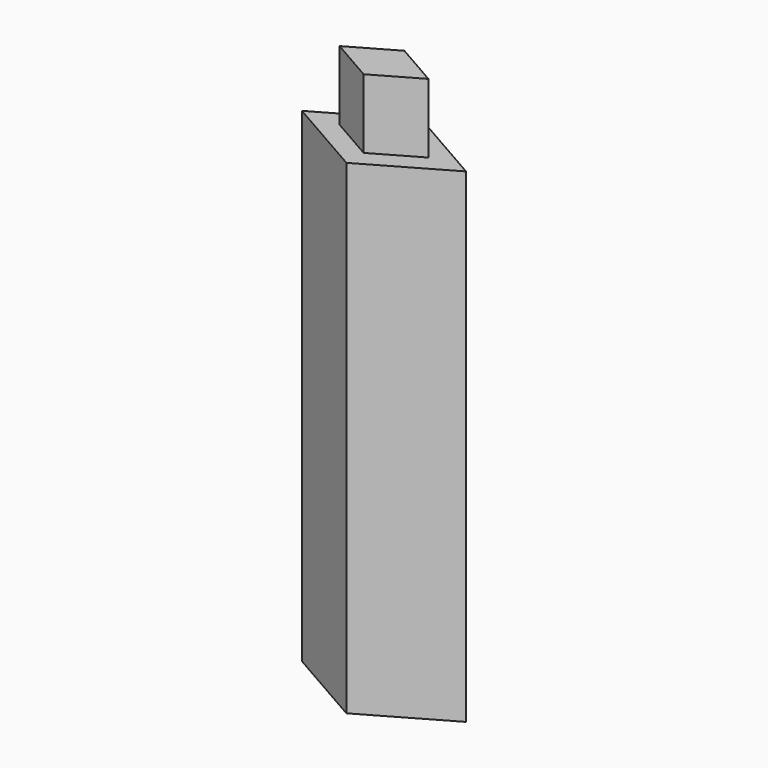
from build123d import *

# Parameters (mm, degrees)
F1_DEPTH = 50.8
F3_DEPTH = 127
F5_DEPTH = 25.4


with BuildPart() as f1:
    # F0 (on Top) → F1 (new body)
    with BuildSketch(Plane.XY):
        Polygon((-30.099, 0), (-17.3265462716, 0), (0, 9.9280379058), (0, 17.2466), align=None)
        Polygon((0, 17.2466), (0, 9.9280379058), (17.3265462716, 0), (30.099, 0), align=None)
        Polygon((30.099, 0), (17.3265462716, 0), (0, -9.9280379058), (0, -17.2466), align=None)
        Polygon((0, -9.9280379058), (-17.3265462716, 0), (-30.099, 0), (0, -17.2466), align=None)
    extrude(amount=F1_DEPTH)

    # F2 (on face) → F3 (join)
    with BuildSketch(Plane.XY.offset(50.8)):
        Polygon((-30.099, 0), (0, -17.2466), (30.099, 0), (0, 17.2466), align=None)
        Polygon((0, -9.9280379058), (-17.3265462716, 0), (0, 9.9280379058), (17.3265462716, 0), align=None, mode=Mode.SUBTRACT)
        Polygon((0, 9.9280379058), (-17.3265462716, 0), (0, -9.9280379058), (17.3265462716, 0), align=None)
    extrude(amount=F3_DEPTH)

    # F4 (on face) → F5 (join)
    with BuildSketch(Plane.XY.offset(177.8)):
        Polygon((0, 9.3425529383), (-16.3047499733, 0), (0, -9.3425529383), (16.3047499733, 0), align=None)
    extrude(amount=F5_DEPTH)


solid = f1.part
